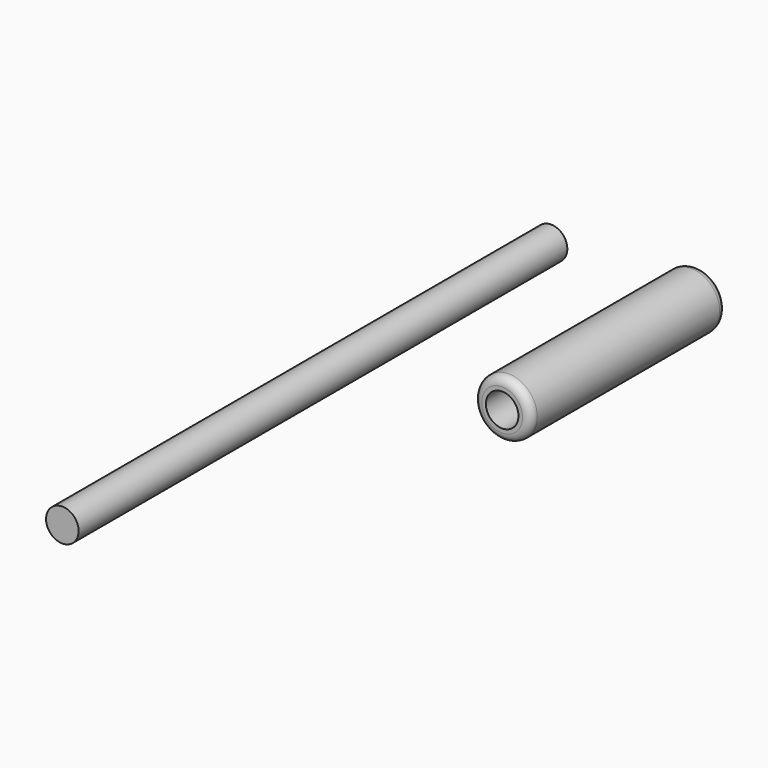
from build123d import *

# Parameters (mm, degrees)
F0_R     = 3.5
F0_R_2   = 2
F1_DEPTH = 30
F2_R     = 1
F3_DEPTH = 75


with BuildPart() as f1:
    # F0 (on Front) → F1 (new body)
    with BuildSketch(Plane.XZ):
        Circle(F0_R)
        Circle(F0_R_2, mode=Mode.SUBTRACT)
    extrude(amount=F1_DEPTH)

    # F2
    f2_edges = [f1.edges().sort_by_distance(p)[0] for p in [
        (-3.5, -30, 0),
        (-3.5, 0, 0),
    ]]
    fillet(f2_edges, radius=F2_R)


with BuildPart() as f3:
    # F0 (on Front) → F3 (new body)
    with BuildSketch(Plane.XZ):
        with Locations((-18, 0)):
            Circle(F0_R_2)
    extrude(amount=F3_DEPTH)


solid = Compound([f1.part, f3.part])
